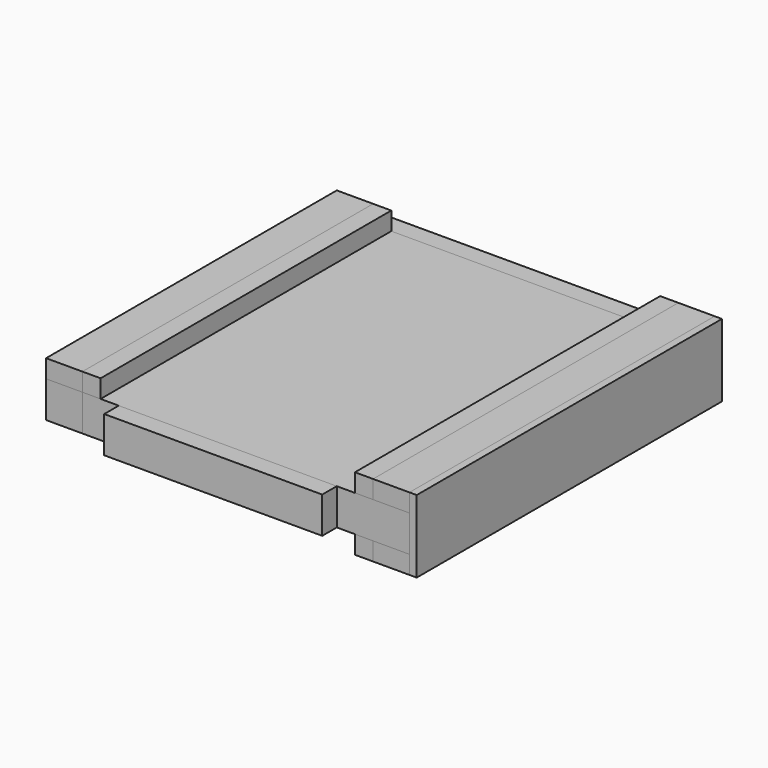
from build123d import *

# Parameters (mm, degrees)
F0_W      = 101.6
F0_H      = 127
F1_DEPTH  = 12.7
F2_W      = 76.2
F2_H      = 12.7
F3_DEPTH  = 6.35
F6_DEPTH  = 6.35
F4_W      = 127
F4_H      = 12.7
F7_DEPTH  = 12.7
F8_DEPTH  = 6.35
F9_DEPTH  = 12.7
F10_W     = 133.35
F10_H     = 25.4
F11_DEPTH = 2.54
F12_W     = 12.7
F12_H     = 12.7
F13_DEPTH = 6.35
F14_W     = 6.35
F14_H     = 12.6919811592
F15_DEPTH = 101.6
F16_W     = 127
F16_H     = 12.7
F17_DEPTH = 12.7
F18_W     = 12.7
F18_H     = 127
F19_DEPTH = 6.35
F20_W     = 127
F20_H     = 6.35
F21_DEPTH = 6.35


with BuildPart() as f1:
    # F0 (on Top) → F1 (new body)
    with BuildSketch(Plane.XY):
        with Locations((-5.8006451845, 63.5)):
            Rectangle(F0_W, F0_H)
    extrude(amount=F1_DEPTH)

    # F4 (on face) → F7 (join)
    with BuildSketch(Plane.YZ.offset(44.9993548155)):
        with Locations((63.5, 6.35)):
            Rectangle(F4_W, F4_H)
    extrude(amount=F7_DEPTH)


with BuildPart() as f3:
    # F2 (on face) → F3 (new body)
    with BuildSketch(Plane.XZ):
        with Locations((-5.8006451845, 6.35)):
            Rectangle(F2_W, F2_H)
    extrude(amount=F3_DEPTH)


with BuildPart() as f6:
    # F5 (on face) → F6 (new body)
    with BuildSketch(Plane.YZ.offset(44.9993548155)):
        Polygon((0, 19.05), (0, 12.7), (127, 12.7), (133.35, 12.7), (133.35, 19.05), align=None)
    extrude(amount=-F6_DEPTH)


with BuildPart() as f8:
    # F5 (on face) → F8 (new body)
    with BuildSketch(Plane.YZ.offset(44.9993548155)):
        Polygon((127, 0), (0, 0), (0, -6.35), (133.35, -6.35), (133.35, 0), align=None)
    extrude(amount=-F8_DEPTH)


with BuildPart() as f9:
    # F5 (on face) → F9 (new body)
    with BuildSketch(Plane.YZ.offset(44.9993548155)):
        Polygon((127, 0), (0, 0), (0, -6.35), (133.35, -6.35), (133.35, 0), align=None)
    extrude(amount=F9_DEPTH)


with BuildPart() as f9b:
    # F5 (on face) → F9, piece 2 (new body)
    with BuildSketch(Plane.YZ.offset(44.9993548155)):
        Polygon((0, 19.05), (0, 12.7), (127, 12.7), (133.35, 12.7), (133.35, 19.05), align=None)
    extrude(amount=F9_DEPTH)


with BuildPart() as f11:
    # F10 (on face) → F11 (new body)
    with BuildSketch(Plane.YZ.offset(57.6993548155)):
        with Locations((66.675, 6.3499511823)):
            Rectangle(F10_W, F10_H)
    extrude(amount=F11_DEPTH)


with BuildPart() as f13:
    # F12 (on face) → F13 (new body)
    with BuildSketch(Plane(origin=(0, 127, 0), x_dir=(-1, 0, 0), z_dir=(0, 1, 0))):
        with Locations((-51.3493548155, 6.35)):
            Rectangle(F12_W, F12_H)
    extrude(amount=F13_DEPTH)


with BuildPart() as f15:
    # F14 (on face) → F15 (new body)
    with BuildSketch(Plane(origin=(-56.6006451845, 0, 0), x_dir=(0, -1, 0), z_dir=(-1, 0, 0))):
        with Locations((-130.175, 6.3459905796)):
            Rectangle(F14_W, F14_H)
    extrude(amount=-F15_DEPTH)


with BuildPart() as f17:
    # F16 (on face) → F17 (new body)
    with BuildSketch(Plane(origin=(-56.6006451845, 0, 0), x_dir=(0, -1, 0), z_dir=(-1, 0, 0))):
        with Locations((-63.5, 6.35)):
            Rectangle(F16_W, F16_H)
    extrude(amount=F17_DEPTH)


with BuildPart() as f19:
    # F18 (on face) → F19 (new body)
    with BuildSketch(Plane.XY.offset(12.7)):
        with Locations((-62.9506451845, 63.5)):
            Rectangle(F18_W, F18_H)
    extrude(amount=F19_DEPTH)


with BuildPart() as f21:
    # F20 (on face) → F21 (new body)
    with BuildSketch(Plane.YZ.offset(-56.6006451845)):
        with Locations((63.5, 15.875)):
            Rectangle(F20_W, F20_H)
    extrude(amount=F21_DEPTH)


solid = Compound([f1.part, f3.part, f6.part, f8.part, f9.part, f9b.part, f11.part, f13.part, f15.part, f17.part, f19.part, f21.part])
